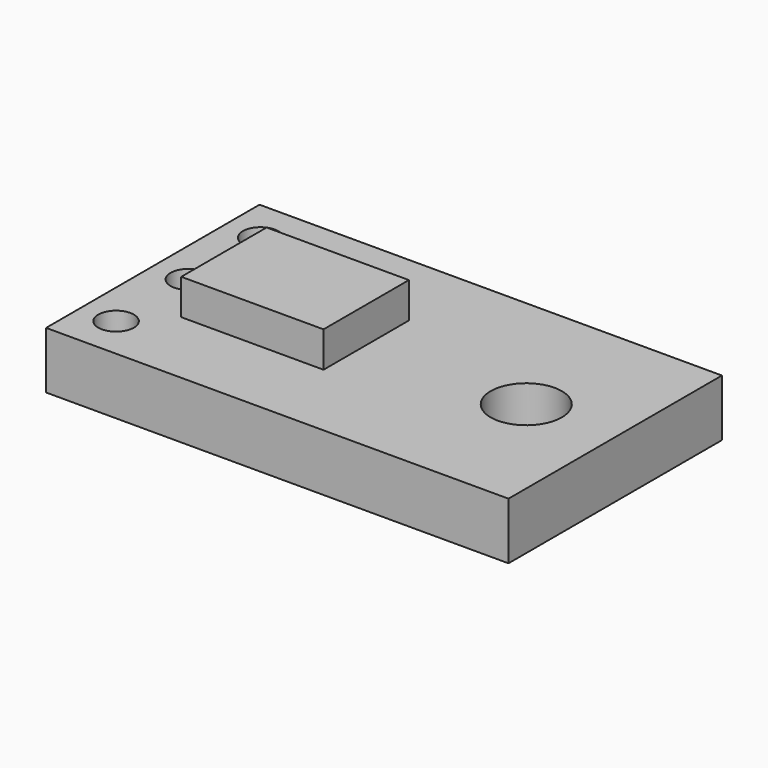
from build123d import *

# Parameters (mm, degrees)
F0_W     = 13
F0_H     = 7.5
F0_R     = 0.5
F0_W_2   = 4
F0_H_2   = 3
F0_R_2   = 1
F1_DEPTH = 1.6
F2_DEPTH = 1


with BuildPart() as f1:
    # F0 (on Top) → F1 (new body)
    with BuildSketch(Plane.XY):
        Rectangle(F0_W, F0_H)
        with Locations((-5.5, -2.54)):
            Circle(F0_R, mode=Mode.SUBTRACT)
        with Locations((-5.5, 0)):
            Circle(F0_R, mode=Mode.SUBTRACT)
        with Locations((-2.5, 0)):
            Rectangle(F0_W_2, F0_H_2, mode=Mode.SUBTRACT)
        with Locations((-5.5, 2.54)):
            Circle(F0_R, mode=Mode.SUBTRACT)
        with Locations((4, 0)):
            Circle(F0_R_2, mode=Mode.SUBTRACT)
        with Locations((-2.5, 0)):
            Rectangle(F0_W_2, F0_H_2)
    extrude(amount=-F1_DEPTH)

    # F0 (on Top) → F2 (join)
    with BuildSketch(Plane.XY):
        with Locations((-2.5, 0)):
            Rectangle(F0_W_2, F0_H_2)
    extrude(amount=F2_DEPTH)


solid = f1.part
